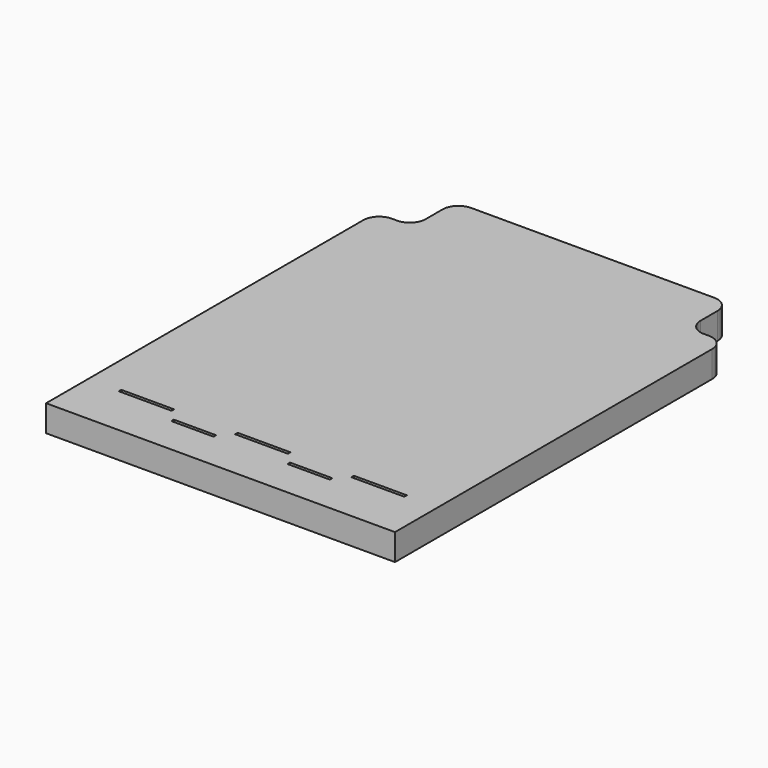
from build123d import *

# Parameters (mm, degrees)
F0_W     = 330
F0_H     = 390
F1_DEPTH = 25
F2_W     = 260
F2_H     = 25
F3_DEPTH = 50
F4_R     = 15
F5_W     = 50
F5_H     = 3
F5_W_2   = 40
F6_DEPTH = 25


with BuildPart() as f1:
    # F0 (on Top) → F1 (new body)
    with BuildSketch(Plane.XY):
        Rectangle(F0_W, F0_H)
    extrude(amount=F1_DEPTH)

    # F2 (on face) → F3 (join)
    with BuildSketch(Plane(origin=(0, 195, 0), x_dir=(-1, 0, 0), z_dir=(0, 1, 0))):
        with Locations((0, 12.5)):
            Rectangle(F2_W, F2_H)
    extrude(amount=F3_DEPTH)

    # F4
    f4_edges = [f1.edges().sort_by_distance(p)[0] for p in [
        (-165, 195, 12.5),
        (-130, 245, 12.5),
        (130, 245, 12.5),
        (165, 195, 12.5),
        (-130, 195, 12.5),
        (130, 195, 12.5),
    ]]
    fillet(f4_edges, radius=F4_R)

    # F5 (on face) → F6 (cut)
    with BuildSketch(Plane.XY.offset(25)):
        with Locations((-110, -145.050164)):
            Rectangle(F5_W, F5_H)
        with Locations((0, -145.050164)):
            Rectangle(F5_W, F5_H)
        with Locations((110, -145.050164)):
            Rectangle(F5_W, F5_H)
        with Locations((-55, -158.050164)):
            Rectangle(F5_W_2, F5_H)
        with Locations((55, -158.050164)):
            Rectangle(F5_W_2, F5_H)
    extrude(amount=-F6_DEPTH, mode=Mode.SUBTRACT)


solid = f1.part
